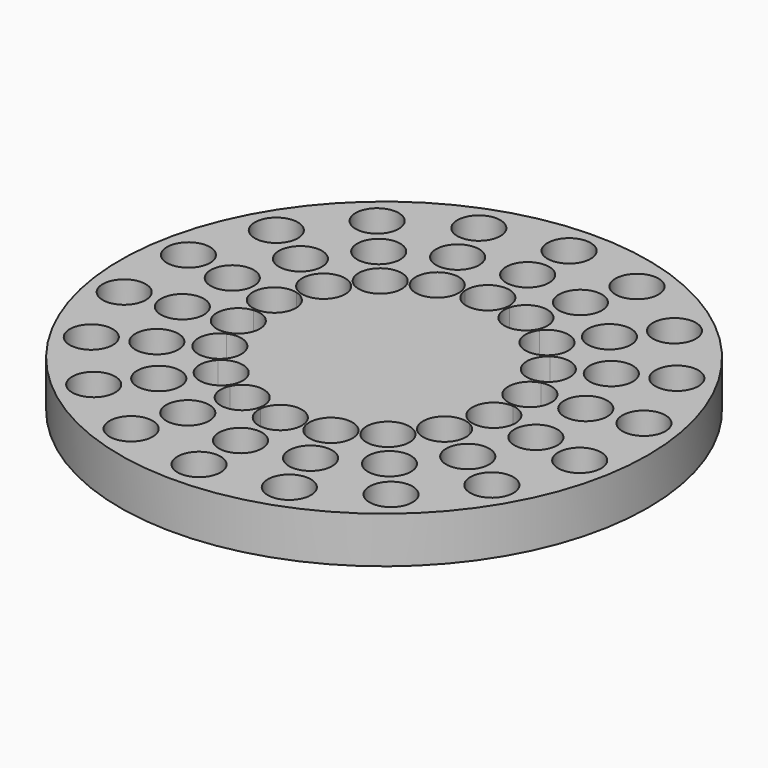
from build123d import *

# Parameters (mm, degrees)
F0_R     = 28.486326
F0_R_2   = 2.325
F1_DEPTH = 5


with BuildPart() as f1:
    # F0 (on Top) → F1 (new body)
    with BuildSketch(Plane.XY):
        Circle(F0_R)
        with Locations((-16.043124, -19.119451)):
            Circle(F0_R_2, mode=Mode.SUBTRACT)
        with Locations((-8.536368, -23.453478)):
            Circle(F0_R_2, mode=Mode.SUBTRACT)
        with Locations((-12.45077, -14.83825)):
            Circle(F0_R_2, mode=Mode.SUBTRACT)
        with Locations((-6.624916, -18.201808)):
            Circle(F0_R_2, mode=Mode.SUBTRACT)
        with Locations((-21.614842, -12.479335)):
            Circle(F0_R_2, mode=Mode.SUBTRACT)
        with Locations((-16.774877, -9.68498)):
            Circle(F0_R_2, mode=Mode.SUBTRACT)
        with Locations((-24.579492, -4.334028)):
            Circle(F0_R_2, mode=Mode.SUBTRACT)
        with Locations((-19.075687, -3.363558)):
            Circle(F0_R_2, mode=Mode.SUBTRACT)
        with Locations((0, -24.95867)):
            Circle(F0_R_2, mode=Mode.SUBTRACT)
        with Locations((8.536368, -23.453478)):
            Circle(F0_R_2, mode=Mode.SUBTRACT)
        with Locations((0, -19.36996)):
            Circle(F0_R_2, mode=Mode.SUBTRACT)
        with Locations((6.624916, -18.201808)):
            Circle(F0_R_2, mode=Mode.SUBTRACT)
        with Locations((12.45077, -14.83825)):
            Circle(F0_R_2, mode=Mode.SUBTRACT)
        with Locations((16.043124, -19.119451)):
            Circle(F0_R_2, mode=Mode.SUBTRACT)
        with Locations((16.774877, -9.68498)):
            Circle(F0_R_2, mode=Mode.SUBTRACT)
        with Locations((21.614842, -12.479335)):
            Circle(F0_R_2, mode=Mode.SUBTRACT)
        with Locations((19.075687, -3.363558)):
            Circle(F0_R_2, mode=Mode.SUBTRACT)
        with Locations((24.579492, -4.334028)):
            Circle(F0_R_2, mode=Mode.SUBTRACT)
        with Locations((-24.579492, 4.334028)):
            Circle(F0_R_2, mode=Mode.SUBTRACT)
        with Locations((-19.075687, 3.363558)):
            Circle(F0_R_2, mode=Mode.SUBTRACT)
        with Locations((-21.614842, 12.479335)):
            Circle(F0_R_2, mode=Mode.SUBTRACT)
        with Locations((-16.774877, 9.68498)):
            Circle(F0_R_2, mode=Mode.SUBTRACT)
        with Locations((-16.043124, 19.119451)):
            Circle(F0_R_2, mode=Mode.SUBTRACT)
        with Locations((-12.45077, 14.83825)):
            Circle(F0_R_2, mode=Mode.SUBTRACT)
        with Locations((-6.624916, 18.201808)):
            Circle(F0_R_2, mode=Mode.SUBTRACT)
        with Locations((-8.536368, 23.453478)):
            Circle(F0_R_2, mode=Mode.SUBTRACT)
        with BuildLine():
            ThreePointArc((13.999521, 0.11578), (13.99988, 0.05789), (14, 0))
            ThreePointArc((14, 0), (13.99988, -0.05789), (13.999521, -0.11578))
            ThreePointArc((13.999521, -0.11578), (15.504722, -0.863875), (16.112309, -2.431074))
            ThreePointArc((16.112309, -2.431074), (15.206489, -4.272691), (13.194846, -4.679321))
            ThreePointArc((13.194846, -4.679321), (13.155697, -4.788282), (13.115648, -4.896915))
            ThreePointArc((13.115648, -4.896915), (14.087819, -5.754835), (14.449356, -7))
            ThreePointArc((14.449356, -7), (13.202183, -9.060076), (10.798677, -8.910027))
            ThreePointArc((10.798677, -8.910027), (10.724622, -8.999027), (10.649834, -9.087411))
            ThreePointArc((10.649834, -9.087411), (11.148881, -9.839326), (11.324027, -10.724622))
            ThreePointArc((11.324027, -10.724622), (9.702751, -12.940564), (7.100029, -12.066051))
            ThreePointArc((7.100029, -12.066051), (7, -12.124356), (6.899493, -12.181831))
            ThreePointArc((6.899493, -12.181831), (7.059206, -12.657169), (7.113282, -13.155697))
            ThreePointArc((7.113282, -13.155697), (5.096521, -15.460174), (2.545012, -13.766732))
            ThreePointArc((2.545012, -13.766732), (2.431074, -13.787309), (2.316971, -13.806942))
            ThreePointArc((2.316971, -13.806942), (2.322992, -13.903388), (2.325, -14))
            ThreePointArc((2.325, -14), (-0.096612, -16.322992), (-2.316971, -13.806942))
            ThreePointArc((-2.316971, -13.806942), (-2.431074, -13.787309), (-2.545012, -13.766732))
            ThreePointArc((-2.545012, -13.766732), (-5.583479, -15.340482), (-6.899493, -12.181831))
            ThreePointArc((-6.899493, -12.181831), (-7, -12.124356), (-7.100029, -12.066051))
            ThreePointArc((-7.100029, -12.066051), (-10.493508, -12.505676), (-10.649834, -9.087411))
            ThreePointArc((-10.649834, -9.087411), (-10.724622, -8.999027), (-10.798677, -8.910027))
            ThreePointArc((-10.798677, -8.910027), (-14.137865, -8.1625), (-13.115648, -4.896915))
            ThreePointArc((-13.115648, -4.896915), (-13.155697, -4.788282), (-13.194846, -4.679321))
            ThreePointArc((-13.194846, -4.679321), (-16.076987, -2.834807), (-13.999521, -0.11578))
            ThreePointArc((-13.999521, -0.11578), (-14, 0), (-13.999521, 0.11578))
            ThreePointArc((-13.999521, 0.11578), (-16.076987, 2.834807), (-13.194846, 4.679321))
            ThreePointArc((-13.194846, 4.679321), (-13.155697, 4.788282), (-13.115648, 4.896915))
            ThreePointArc((-13.115648, 4.896915), (-14.137865, 8.1625), (-10.798677, 8.910027))
            ThreePointArc((-10.798677, 8.910027), (-10.724622, 8.999027), (-10.649834, 9.087411))
            ThreePointArc((-10.649834, 9.087411), (-10.493508, 12.505676), (-7.100029, 12.066051))
            ThreePointArc((-7.100029, 12.066051), (-7, 12.124356), (-6.899493, 12.181831))
            ThreePointArc((-6.899493, 12.181831), (-5.583479, 15.340482), (-2.545012, 13.766732))
            ThreePointArc((-2.545012, 13.766732), (-2.431074, 13.787309), (-2.316971, 13.806942))
            ThreePointArc((-2.316971, 13.806942), (-0.096612, 16.322992), (2.325, 14))
            ThreePointArc((2.325, 14), (2.322992, 13.903388), (2.316971, 13.806942))
            ThreePointArc((2.316971, 13.806942), (2.431074, 13.787309), (2.545012, 13.766732))
            ThreePointArc((2.545012, 13.766732), (5.096521, 15.460174), (7.113282, 13.155697))
            ThreePointArc((7.113282, 13.155697), (7.059206, 12.657169), (6.899493, 12.181831))
            ThreePointArc((6.899493, 12.181831), (7, 12.124356), (7.100029, 12.066051))
            ThreePointArc((7.100029, 12.066051), (9.702751, 12.940564), (11.324027, 10.724622))
            ThreePointArc((11.324027, 10.724622), (11.148881, 9.839326), (10.649834, 9.087411))
            ThreePointArc((10.649834, 9.087411), (10.724622, 8.999027), (10.798677, 8.910027))
            ThreePointArc((10.798677, 8.910027), (13.202183, 9.060076), (14.449356, 7))
            ThreePointArc((14.449356, 7), (14.087819, 5.754835), (13.115648, 4.896915))
            ThreePointArc((13.115648, 4.896915), (13.155697, 4.788282), (13.194846, 4.679321))
            ThreePointArc((13.194846, 4.679321), (15.206489, 4.272691), (16.112309, 2.431074))
            ThreePointArc((16.112309, 2.431074), (15.504722, 0.863875), (13.999521, 0.11578))
        make_face(mode=Mode.SUBTRACT)
        with Locations((19.075687, 3.363558)):
            Circle(F0_R_2, mode=Mode.SUBTRACT)
        with Locations((24.579492, 4.334028)):
            Circle(F0_R_2, mode=Mode.SUBTRACT)
        with Locations((16.774877, 9.68498)):
            Circle(F0_R_2, mode=Mode.SUBTRACT)
        with Locations((21.614842, 12.479335)):
            Circle(F0_R_2, mode=Mode.SUBTRACT)
        with Locations((0, 19.36996)):
            Circle(F0_R_2, mode=Mode.SUBTRACT)
        with Locations((6.624916, 18.201808)):
            Circle(F0_R_2, mode=Mode.SUBTRACT)
        with Locations((12.45077, 14.83825)):
            Circle(F0_R_2, mode=Mode.SUBTRACT)
        with Locations((0, 24.95867)):
            Circle(F0_R_2, mode=Mode.SUBTRACT)
        with Locations((8.536368, 23.453478)):
            Circle(F0_R_2, mode=Mode.SUBTRACT)
        with Locations((16.043124, 19.119451)):
            Circle(F0_R_2, mode=Mode.SUBTRACT)
        with BuildLine():
            ThreePointArc((13.999521, -0.11578), (13.99988, -0.05789), (14, 0))
            ThreePointArc((14, 0), (13.99988, 0.05789), (13.999521, 0.11578))
            ThreePointArc((13.999521, 0.11578), (11.497631, 2.027342), (13.194846, 4.679321))
            ThreePointArc((13.194846, 4.679321), (13.155697, 4.788282), (13.115648, 4.896915))
            ThreePointArc((13.115648, 4.896915), (10.110847, 5.8375), (10.798677, 8.910027))
            ThreePointArc((10.798677, 8.910027), (10.724622, 8.999027), (10.649834, 9.087411))
            ThreePointArc((10.649834, 9.087411), (7.504545, 8.943569), (7.100029, 12.066051))
            ThreePointArc((7.100029, 12.066051), (7, 12.124356), (6.899493, 12.181831))
            ThreePointArc((6.899493, 12.181831), (3.993085, 10.970911), (2.545012, 13.766732))
            ThreePointArc((2.545012, 13.766732), (2.431074, 13.787309), (2.316971, 13.806942))
            ThreePointArc((2.316971, 13.806942), (0, 11.675), (-2.316971, 13.806942))
            ThreePointArc((-2.316971, 13.806942), (-2.431074, 13.787309), (-2.545012, 13.766732))
            ThreePointArc((-2.545012, 13.766732), (-2.483805, 13.463935), (-2.463282, 13.155697))
            ThreePointArc((-2.463282, 13.155697), (-4.289754, 10.884773), (-6.899493, 12.181831))
            ThreePointArc((-6.899493, 12.181831), (-7, 12.124356), (-7.100029, 12.066051))
            ThreePointArc((-7.100029, 12.066051), (-6.783085, 11.428346), (-6.674027, 10.724622))
            ThreePointArc((-6.674027, 10.724622), (-8.113731, 8.574767), (-10.649834, 9.087411))
            ThreePointArc((-10.649834, 9.087411), (-10.724622, 8.999027), (-10.798677, 8.910027))
            ThreePointArc((-10.798677, 8.910027), (-10.064279, 8.077827), (-9.799356, 7))
            ThreePointArc((-9.799356, 7), (-10.879191, 5.036536), (-13.115648, 4.896915))
            ThreePointArc((-13.115648, 4.896915), (-13.155697, 4.788282), (-13.194846, 4.679321))
            ThreePointArc((-13.194846, 4.679321), (-11.945692, 3.850255), (-11.462309, 2.431074))
            ThreePointArc((-11.462309, 2.431074), (-12.220109, 0.713661), (-13.999521, 0.11578))
            ThreePointArc((-13.999521, 0.11578), (-14, 0), (-13.999521, -0.11578))
            ThreePointArc((-13.999521, -0.11578), (-12.220109, -0.713661), (-11.462309, -2.431074))
            ThreePointArc((-11.462309, -2.431074), (-11.945692, -3.850255), (-13.194846, -4.679321))
            ThreePointArc((-13.194846, -4.679321), (-13.155697, -4.788282), (-13.115648, -4.896915))
            ThreePointArc((-13.115648, -4.896915), (-10.879191, -5.036536), (-9.799356, -7))
            ThreePointArc((-9.799356, -7), (-10.064279, -8.077827), (-10.798677, -8.910027))
            ThreePointArc((-10.798677, -8.910027), (-10.724622, -8.999027), (-10.649834, -9.087411))
            ThreePointArc((-10.649834, -9.087411), (-8.113731, -8.574767), (-6.674027, -10.724622))
            ThreePointArc((-6.674027, -10.724622), (-6.783085, -11.428346), (-7.100029, -12.066051))
            ThreePointArc((-7.100029, -12.066051), (-7, -12.124356), (-6.899493, -12.181831))
            ThreePointArc((-6.899493, -12.181831), (-4.289754, -10.884773), (-2.463282, -13.155697))
            ThreePointArc((-2.463282, -13.155697), (-2.483805, -13.463935), (-2.545012, -13.766732))
            ThreePointArc((-2.545012, -13.766732), (-2.431074, -13.787309), (-2.316971, -13.806942))
            ThreePointArc((-2.316971, -13.806942), (0, -11.675), (2.316971, -13.806942))
            ThreePointArc((2.316971, -13.806942), (2.431074, -13.787309), (2.545012, -13.766732))
            ThreePointArc((2.545012, -13.766732), (3.993085, -10.970911), (6.899493, -12.181831))
            ThreePointArc((6.899493, -12.181831), (7, -12.124356), (7.100029, -12.066051))
            ThreePointArc((7.100029, -12.066051), (7.504545, -8.943569), (10.649834, -9.087411))
            ThreePointArc((10.649834, -9.087411), (10.724622, -8.999027), (10.798677, -8.910027))
            ThreePointArc((10.798677, -8.910027), (10.110847, -5.8375), (13.115648, -4.896915))
            ThreePointArc((13.115648, -4.896915), (13.155697, -4.788282), (13.194846, -4.679321))
            ThreePointArc((13.194846, -4.679321), (11.497631, -2.027342), (13.999521, -0.11578))
        make_face()
    extrude(amount=F1_DEPTH)


solid = f1.part
